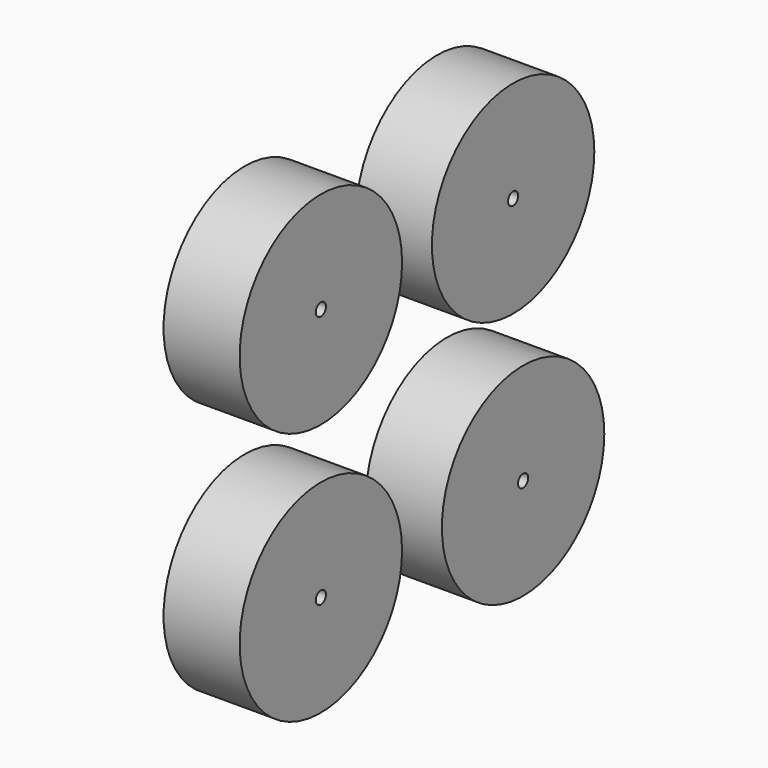
from build123d import *

# Parameters (mm, degrees)
F0_R     = 127
F0_R_2   = 7.9375
F1_DEPTH = 95.25


with BuildPart() as f1:
    # F0 (on Right) → F1 (new body)
    with BuildSketch(Plane.YZ):
        with Locations((-42.404003, 44.349145)):
            Circle(F0_R)
        with Locations((-42.404003, 44.349145)):
            Circle(F0_R_2, mode=Mode.SUBTRACT)
        with Locations((258.309066, 44.349145)):
            Circle(F0_R)
        with Locations((258.309066, 44.349145)):
            Circle(F0_R_2, mode=Mode.SUBTRACT)
        with Locations((273.930818, -272.953659)):
            Circle(F0_R)
        with Locations((273.930818, -272.953659)):
            Circle(F0_R_2, mode=Mode.SUBTRACT)
        with Locations((-42.404003, -272.953659)):
            Circle(F0_R)
        with Locations((-42.404003, -272.953659)):
            Circle(F0_R_2, mode=Mode.SUBTRACT)
    extrude(amount=F1_DEPTH)


solid = f1.part
